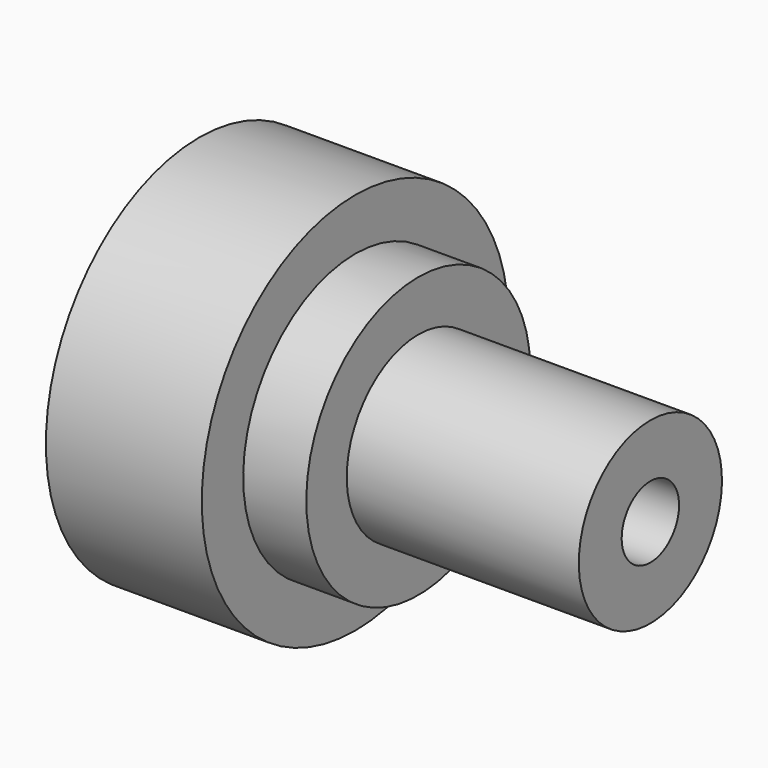
from build123d import *

# Parameters (mm, degrees)
F0_W   = 7.6629137923
F0_H   = 19.4372095666
F0_W_2 = 6.7003971975
F0_H_2 = 10
F0_W_3 = 43.2996028025


with BuildPart() as f1:
    # F0 (on Front) → F1 (revolve)
    with BuildSketch(Plane.XZ):
        Polygon((-71.3174460098, 35.7874520804), (-71.3174460098, 6.6940559655), (-49.8869636872, 6.6940559655), (-49.8869636872, 26.131265532), (-42.2240498949, 26.131265532), (-42.2240498949, 35.7874520804), align=None)
        with Locations((-46.055506791, 16.4126607487)):
            Rectangle(F0_W, F0_H)
        Polygon((-42.2240498949, 26.131265532), (-42.2240498949, 6.6940559655), (-37.1501513181, 6.6940559655), (-37.1501513181, 16.6940559655), (-30.4497541206, 16.6940559655), (-30.4497541206, 26.131265532), align=None)
        with Locations((-33.7999527193, 11.6940559655)):
            Rectangle(F0_W_2, F0_H_2)
        with Locations((-8.7999527193, 11.6940559655)):
            Rectangle(F0_W_3, F0_H_2)
    revolve(axis=Axis((-1.1585881088, 0, 0), (1, 0, 0)))


solid = f1.part
